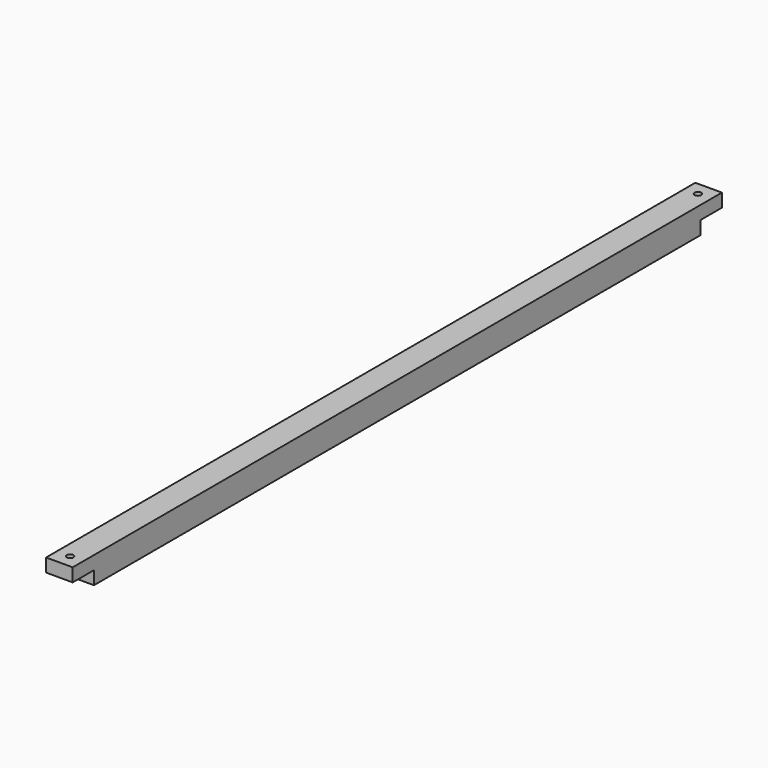
from build123d import *

# Parameters (mm, degrees)
SKETCH065_W     = 40
SKETCH065_H     = 40
PAD035_DEPTH    = 1220
SKETCH066_W     = 40
SKETCH066_H     = 40
POCKET020_DEPTH = 20
SKETCH067_R     = 5
POCKET021_DEPTH = 40.001


with BuildPart() as part:
    # Sketch065 → Pad035 (new body)
    with BuildSketch(Plane.XZ.offset(280)):
        with Locations((1200, 280)):
            Rectangle(SKETCH065_W, SKETCH065_H)
    extrude(amount=PAD035_DEPTH)

    # Sketch066 (on Face3 of Pad035) → Pocket020 (cut)
    with BuildSketch(Plane(origin=(0, 0, 260), x_dir=(1, 0, 0), z_dir=(0, 0, -1))):
        with Locations((1200, 1480)):
            Rectangle(SKETCH066_W, SKETCH066_H)
        with Locations((1200, 300)):
            Rectangle(SKETCH066_W, SKETCH066_H)
    extrude(amount=-POCKET020_DEPTH, mode=Mode.SUBTRACT)

    # Sketch067 (on Face1 of Pocket020) → Pocket021 (cut, through all)
    with BuildSketch(Plane(origin=(0, 0, 300), x_dir=(-1, 0, 0), z_dir=(0, 0, 1))):
        with Locations((-1200, 1480)):
            Circle(SKETCH067_R)
        with Locations((-1200, 300)):
            Circle(SKETCH067_R)
    extrude(amount=-POCKET021_DEPTH, mode=Mode.SUBTRACT)


with BuildPart() as part_1:
    # Clone015 placement: moved
    add(part.part.moved(Location((0, 0, 450))))


solid = part_1.part
